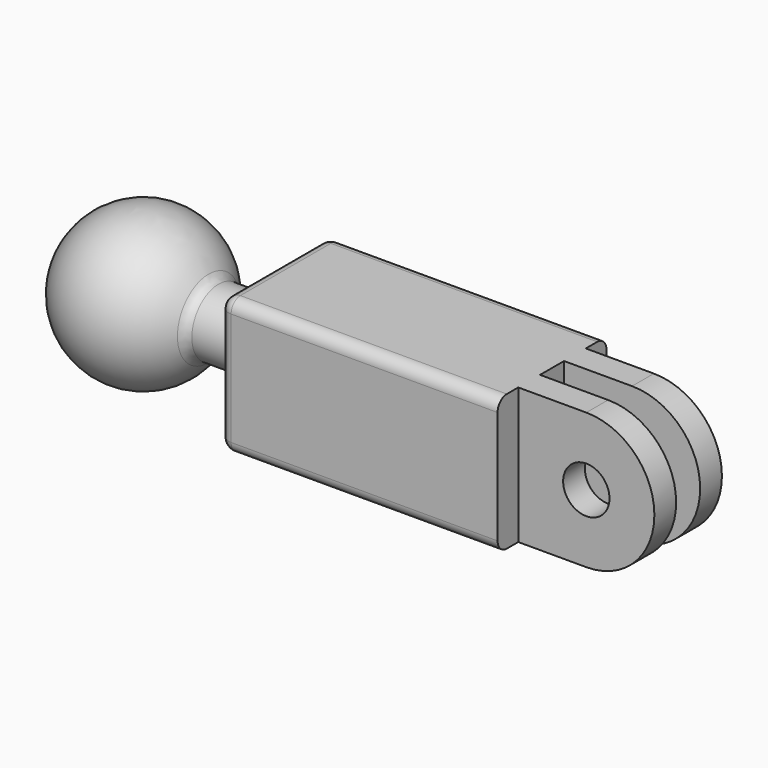
from build123d import *

# Parameters (mm, degrees)
F1_DEPTH      = 7.493
F1_DEPTH_BACK = 7.493
F3_D          = 5.1054
F4_W          = 7.493
F4_H          = 2.8448
F4_H_2        = 3.302
F5_DEPTH      = 25.4
F8_R          = 1.27
F9_R          = 1.27


with BuildPart() as f1:
    # F0 (on Front) → F1 (new body, two sides)
    with BuildSketch(Plane.XZ) as f1_sk:
        with BuildLine():
            Line((-19.05, -7.493), (19.05, -7.493))
            ThreePointArc((19.05, -7.493), (11.557, 0), (19.05, 7.493))
            Line((19.05, 7.493), (-19.05, 7.493))
            Line((-19.05, 7.493), (-19.05, -7.493))
        make_face()
        with BuildLine():
            ThreePointArc((19.05, 7.493), (11.557, 0), (19.05, -7.493))
            Line((19.05, -7.493), (19.05, 7.493))
        make_face()
        with BuildLine():
            Line((19.05, 7.493), (19.05, -7.493))
            ThreePointArc((19.05, -7.493), (24.3483511114, -5.2983511114), (26.543, 0))
            ThreePointArc((26.543, 0), (24.3483511114, 5.2983511114), (19.05, 7.493))
        make_face()
    extrude(amount=F1_DEPTH)
    extrude(f1_sk.sketch, amount=-F1_DEPTH_BACK)

    # F3 (through all)
    with Locations(Plane.XZ.offset(7.493)):
        with Locations((19.05, 0)):
            Hole(F3_D / 2)

    # F4 (on face) → F5 (cut)
    with BuildSketch(Plane.XY.offset(7.493)):
        with Locations((15.3035, 6.0706)):
            Rectangle(F4_W, F4_H)
        with Locations((22.7965, 6.0706)):
            Rectangle(F4_W, F4_H)
        with Locations((22.7965, 0)):
            Rectangle(F4_W, F4_H_2)
        with Locations((15.3035, 0)):
            Rectangle(F4_W, F4_H_2)
        with Locations((15.3035, -6.0706)):
            Rectangle(F4_W, F4_H)
        with Locations((22.7965, -6.0706)):
            Rectangle(F4_W, F4_H)
    extrude(amount=-F5_DEPTH, mode=Mode.SUBTRACT)

    # F6 (on Front) → F7 (revolve)
    with BuildSketch(Plane.XZ):
        with BuildLine():
            Line((-41.8195042998, 0), (-25.0555042998, 0))
            ThreePointArc((-25.0555042998, 0), (-25.2714088729, 1.8901876837), (-25.908, 3.683))
            ThreePointArc((-25.908, 3.683), (-35.3276919835, 8.1660954268), (-41.8195042998, 0))
        make_face()
        with BuildLine():
            Line((-25.0555042998, 0), (-19.05, 0))
            Line((-19.05, 0), (-19.05, 3.683))
            Line((-19.05, 3.683), (-25.908, 3.683))
            ThreePointArc((-25.908, 3.683), (-25.2714088729, 1.8901876837), (-25.0555042998, 0))
        make_face()
    revolve(axis=Axis((-30.4347521499, 0, 0), (-1, 0, 0)))

    # F8
    f8_edges = [f1.edges().sort_by_distance(p)[0] for p in [
        (-25.908, 0, -3.683),
        (-19.05, 0, -3.683),
    ]]
    fillet(f8_edges, radius=F8_R)

    # F9
    f9_edges = [f1.edges().sort_by_distance(p)[0] for p in [
        (-19.05, -7.493, 0),
        (-19.05, 0, 7.493),
        (-3.7465, -7.493, 7.493),
        (-3.7465, 7.493, 7.493),
        (-19.05, 7.493, 0),
        (-19.05, 0, -7.493),
        (-3.7465, 7.493, -7.493),
        (-3.7465, -7.493, -7.493),
    ]]
    fillet(f9_edges, radius=F9_R)


solid = f1.part
